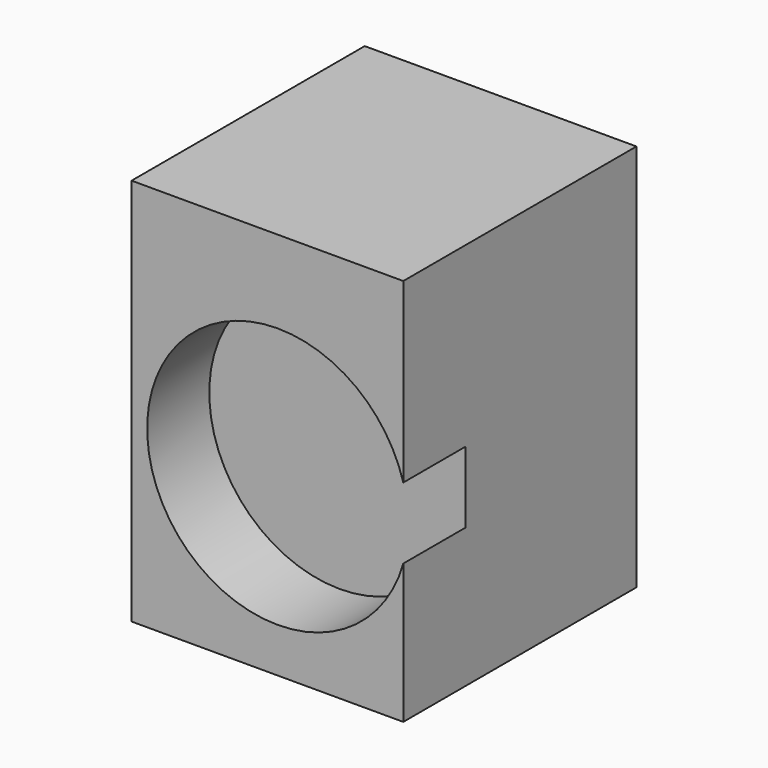
from build123d import *

# Parameters (mm, degrees)
F0_W     = 88.8981
F0_H     = 95.349506
F1_DEPTH = 127
F3_DEPTH = 25.4


with BuildPart() as f1:
    # F0 (on Top) → F1 (new body)
    with BuildSketch(Plane.XY):
        with Locations((-17.416779, 4.196223)):
            Rectangle(F0_W, F0_H)
    extrude(amount=F1_DEPTH)

    # F2 (on face) → F3 (cut)
    with BuildSketch(Plane.XZ.offset(43.47853)):
        with BuildLine():
            Line((27.032271, 45.625824), (27.032271, 68.949555))
            ThreePointArc((27.032271, 68.949555), (-56.764091, 57.287689), (27.032271, 45.625824))
        make_face()
        with BuildLine():
            ThreePointArc((27.032271, 45.625824), (28.247554, 51.40056), (28.655243, 57.287689))
            ThreePointArc((28.655243, 57.287689), (28.247554, 63.174818), (27.032271, 68.949555))
            Line((27.032271, 68.949555), (27.032271, 45.625824))
        make_face()
    extrude(amount=-F3_DEPTH, mode=Mode.SUBTRACT)


solid = f1.part
